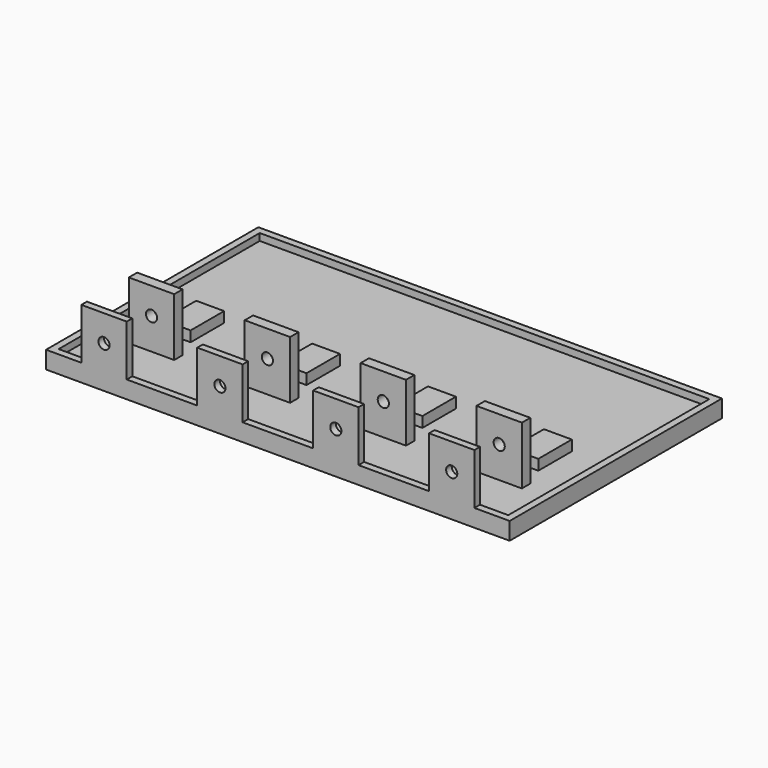
from build123d import *

# Parameters (mm, degrees)
SKETCH_W        = 664
SKETCH_H        = 380
PAD_DEPTH       = 25
SKETCH001_W     = 644
SKETCH001_H     = 360
POCKET_DEPTH    = 10
SKETCH002_W     = 65
SKETCH002_H     = 10
PAD001_DEPTH    = 73
SKETCH003_R     = 8
POCKET001_DEPTH = 10
SKETCH004_W     = 65
SKETCH004_H     = 15
PAD002_DEPTH    = 83
SKETCH005_R     = 8
POCKET002_DEPTH = 100
SKETCH006_W     = 40
SKETCH006_H     = 60
PAD003_DEPTH    = 15


with BuildPart() as part:
    # Sketch → Pad (new body)
    with BuildSketch(Plane.XY):
        Rectangle(SKETCH_W, SKETCH_H)
    extrude(amount=PAD_DEPTH)

    # Sketch001 (on Face6 of Pad) → Pocket (cut)
    with BuildSketch(Plane.XY.offset(25)):
        Rectangle(SKETCH001_W, SKETCH001_H)
    extrude(amount=-POCKET_DEPTH, mode=Mode.SUBTRACT)

    # Sketch002 (on Face5 of Pocket) → Pad001 (join)
    with BuildSketch(Plane.XY.offset(25)):
        with Locations((-249, -185)):
            Rectangle(SKETCH002_W, SKETCH002_H)
        with Locations((-83, -185)):
            Rectangle(SKETCH002_W, SKETCH002_H)
        with Locations((83, -185)):
            Rectangle(SKETCH002_W, SKETCH002_H)
        with Locations((249, -185)):
            Rectangle(SKETCH002_W, SKETCH002_H)
    extrude(amount=PAD001_DEPTH)

    # Sketch003 (on Face25 of Pad001) → Pocket001 (cut)
    with BuildSketch(Plane.XZ.offset(190)):
        with Locations((249, 60)):
            Circle(SKETCH003_R)
        with Locations((83, 60)):
            Circle(SKETCH003_R)
        with Locations((-83, 60)):
            Circle(SKETCH003_R)
        with Locations((-249, 60)):
            Circle(SKETCH003_R)
    extrude(amount=-POCKET001_DEPTH, mode=Mode.SUBTRACT)

    # Sketch004 (on Face27 of Pocket001) → Pad002 (join)
    with BuildSketch(Plane.XY.offset(15)):
        with Locations((249, -97.5)):
            Rectangle(SKETCH004_W, SKETCH004_H)
        with Locations((83, -97.5)):
            Rectangle(SKETCH004_W, SKETCH004_H)
        with Locations((-249, -97.5)):
            Rectangle(SKETCH004_W, SKETCH004_H)
        with Locations((-83, -97.5)):
            Rectangle(SKETCH004_W, SKETCH004_H)
    extrude(amount=PAD002_DEPTH)

    # Sketch005 → Pocket002 (cut)
    with BuildSketch(Plane.XZ.offset(190)):
        with Locations((-249, 60)):
            Circle(SKETCH005_R)
        with Locations((-83, 60)):
            Circle(SKETCH005_R)
        with Locations((83, 60)):
            Circle(SKETCH005_R)
        with Locations((249, 60)):
            Circle(SKETCH005_R)
    extrude(amount=-POCKET002_DEPTH, mode=Mode.SUBTRACT)

    # Sketch006 (on Face27 of Pocket002) → Pad003 (join)
    with BuildSketch(Plane.XY.offset(15)):
        with Locations((-249, -30)):
            Rectangle(SKETCH006_W, SKETCH006_H)
        with Locations((-83, -30)):
            Rectangle(SKETCH006_W, SKETCH006_H)
        with Locations((83, -30)):
            Rectangle(SKETCH006_W, SKETCH006_H)
        with Locations((249, -30)):
            Rectangle(SKETCH006_W, SKETCH006_H)
    extrude(amount=PAD003_DEPTH)


solid = part.part
